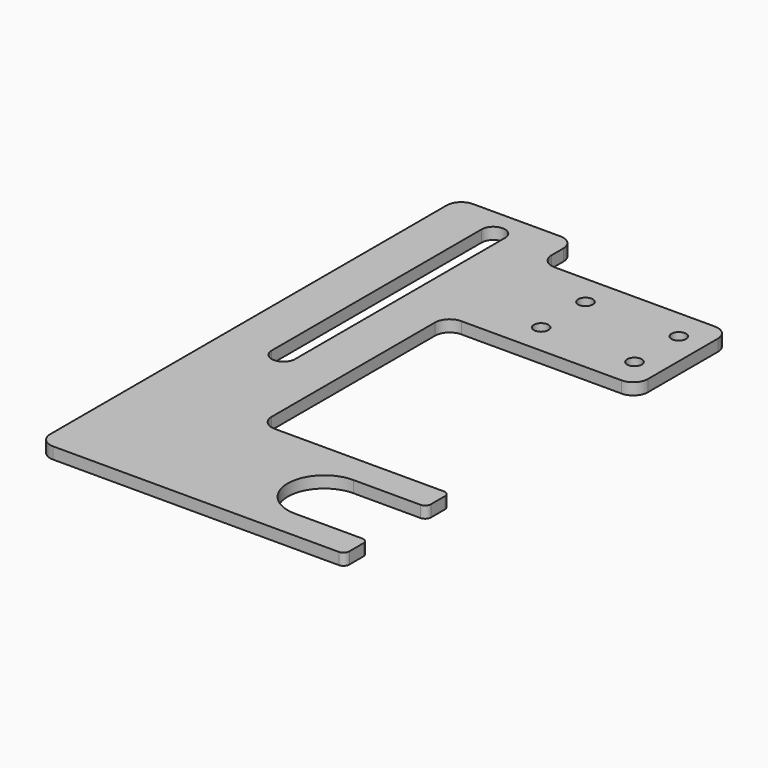
from build123d import *

# Parameters (mm, degrees)
F1_DEPTH = 4
F2_D     = 5


with BuildPart() as f1:
    # F0 (on Top) → F1 (new body)
    with BuildSketch(Plane.XY):
        with BuildLine():
            ThreePointArc((0, -12.5), (-12.5, 0), (0, 12.5))
            Line((0, 12.5), (23, 12.5))
            ThreePointArc((23, 12.5), (24.4142135624, 13.0857864376), (25, 14.5))
            Line((25, 14.5), (25, 20.5))
            ThreePointArc((25, 20.5), (24.4142135624, 21.9142135624), (23, 22.5))
            Line((23, 22.5), (-35, 22.5))
            ThreePointArc((-35, 22.5), (-38.5355339059, 23.9644660941), (-40, 27.5))
            Line((-40, 27.5), (-40, 97.5))
            ThreePointArc((-40, 97.5), (-38.5355339059, 101.0355339059), (-35, 102.5))
            Line((-35, 102.5), (20, 102.5))
            ThreePointArc((20, 102.5), (23.5355339059, 103.9644660941), (25, 107.5))
            Line((25, 107.5), (25, 137.5))
            ThreePointArc((25, 137.5), (23.5355339059, 141.0355339059), (20, 142.5))
            Line((20, 142.5), (-35, 142.5))
            ThreePointArc((-35, 142.5), (-38.5355339059, 143.9644660941), (-40, 147.5))
            Line((-40, 147.5), (-40, 152.5))
            ThreePointArc((-40, 152.5), (-41.4644660941, 156.0355339059), (-45, 157.5))
            Line((-45, 157.5), (-75, 157.5))
            ThreePointArc((-75, 157.5), (-78.5355339059, 156.0355339059), (-80, 152.5))
            Line((-80, 152.5), (-80, -17.5))
            ThreePointArc((-80, -17.5), (-78.5355339059, -21.0355339059), (-75, -22.5))
            Line((-75, -22.5), (23, -22.5))
            ThreePointArc((23, -22.5), (24.4142135624, -21.9142135624), (25, -20.5))
            Line((25, -20.5), (25, -14.5))
            ThreePointArc((25, -14.5), (24.4142135624, -13.0857864376), (23, -12.5))
            Line((23, -12.5), (0, -12.5))
        make_face()
        with BuildLine():
            Line((-64, 57.5), (-64, 147.5))
            ThreePointArc((-64, 147.5), (-60, 151.5), (-56, 147.5))
            Line((-56, 147.5), (-56, 57.5))
            ThreePointArc((-56, 57.5), (-60, 53.5), (-64, 57.5))
        make_face(mode=Mode.SUBTRACT)
    extrude(amount=F1_DEPTH)

    # F2 (through all)
    with Locations(Plane(origin=(0, 0, 0), x_dir=(1, 0, 0), z_dir=(0, 0, -1))):
        with Locations((-16, -132), (16, -132), (16, -113), (-16, -113)):
            Hole(F2_D / 2)


solid = f1.part
